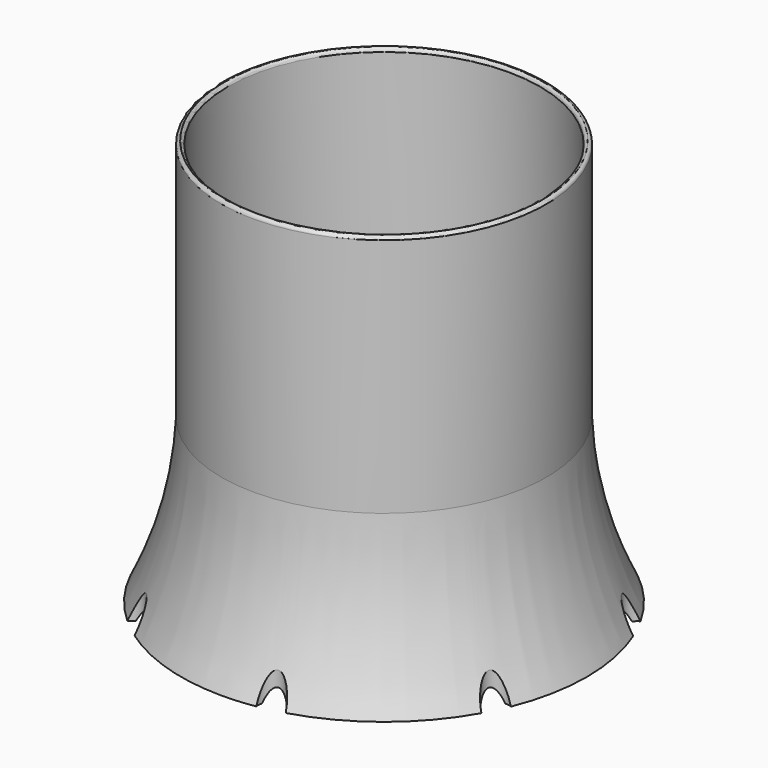
from build123d import *

# Parameters (mm, degrees)
SKETCH001_R        = 4
POCKET_DEPTH       = 571.941906
POLARPATTERN_COUNT = 7
FILLET_R           = 0.99


with BuildPart() as part:
    # Sketch → Revolution (revolve)
    with BuildSketch(Plane.YZ):
        with BuildLine():
            ThreePointArc((-49.656859, 40.083826), (-31.908137, 11.271393), (0, 0))
            Line((0, 2), (0, 0))
            ThreePointArc((-48.8, 50.8), (-34.506811, 16.293189), (0, 2))
            Line((-48.8, 50.8), (-48.8, 127))
            Line((-50.8, 127), (-48.8, 127))
            Line((-50.8, 50.8), (-50.8, 127))
            ThreePointArc((-63.5, 0), (-54.505302, 24.738826), (-50.8, 50.8))
            Line((-63.5, 0), (-61.5, 0))
            ThreePointArc((-61.5, 0), (-53.930886, 19.555131), (-49.656859, 40.083826))
        make_face()
    revolve(axis=Axis((0, 0, 0), (0, 0, 1)))

    # Sketch001 → Pocket (cut, through all)
    with BuildSketch(Plane.XY.offset(-5)):
        with Locations((-63.5, 0)):
            Circle(SKETCH001_R)
        with Locations((-16, 0)):
            Circle(SKETCH001_R)
    pocket = extrude(amount=POCKET_DEPTH, mode=Mode.SUBTRACT)

    # PolarPattern: Pocket ×7 about axis
    polarpattern_axis = Axis((0, 0, -5), (0, 0, 1))
    for i in range(1, POLARPATTERN_COUNT):
        add(pocket.rotate(polarpattern_axis, i * 360 / POLARPATTERN_COUNT), mode=Mode.SUBTRACT)

    # Fillet
    fillet_edges = [part.edges().sort_by_distance(p)[0] for p in [
        (0, 50.8, 127),
        (0, 48.8, 127),
    ]]
    fillet(fillet_edges, radius=FILLET_R)


solid = part.part
